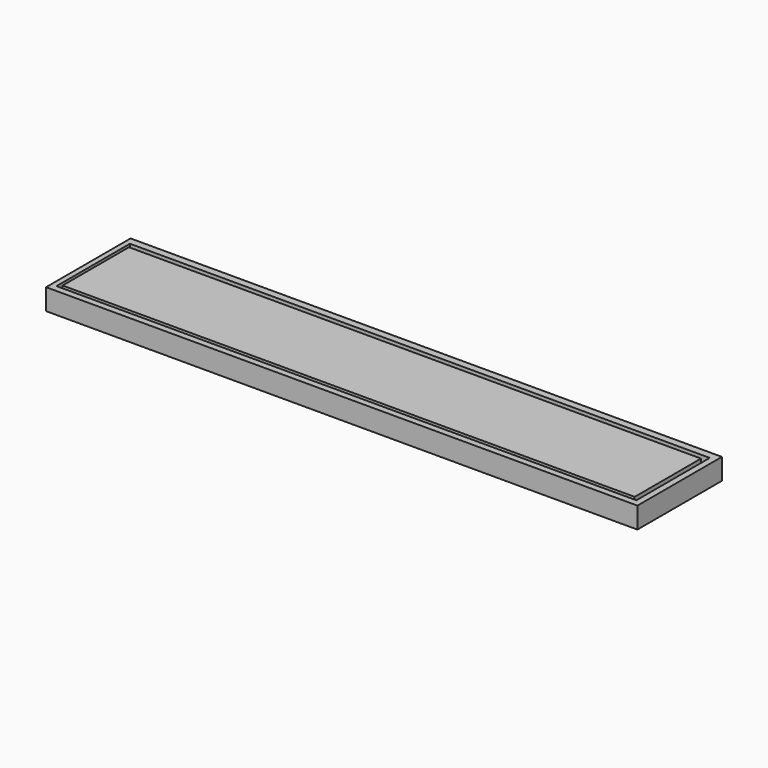
from build123d import *

# Parameters (mm, degrees)
F0_W     = 140
F0_H     = 25
F1_DEPTH = 5
F2_W     = 137.275629
F2_H     = 21.727344
F4_DEPTH = 2
F3_W     = 137.275629
F3_H     = 21.727344
F3_W_2   = 135.43924
F3_H_2   = 19.634312
F5_DEPTH = 2


with BuildPart() as f1:
    # F0 (on Top) → F1 (new body)
    with BuildSketch(Plane.XY):
        with Locations((25.895725, -23.401141)):
            Rectangle(F0_W, F0_H)
    extrude(amount=F1_DEPTH)

    # F2 (on face) → F4 (cut)
    with BuildSketch(Plane.XY.offset(5)):
        with Locations((25.771517, -23.499948)):
            Rectangle(F2_W, F2_H)
    extrude(amount=F4_DEPTH, mode=Mode.SUBTRACT)

    # F3 (on face) → F5 (cut)
    with BuildSketch(Plane.XY.offset(5)):
        with Locations((25.771517, -23.499948)):
            Rectangle(F3_W, F3_H)
        with Locations((25.588829, -23.667381)):
            Rectangle(F3_W_2, F3_H_2, mode=Mode.SUBTRACT)
    extrude(amount=-F5_DEPTH, mode=Mode.SUBTRACT)


solid = f1.part
